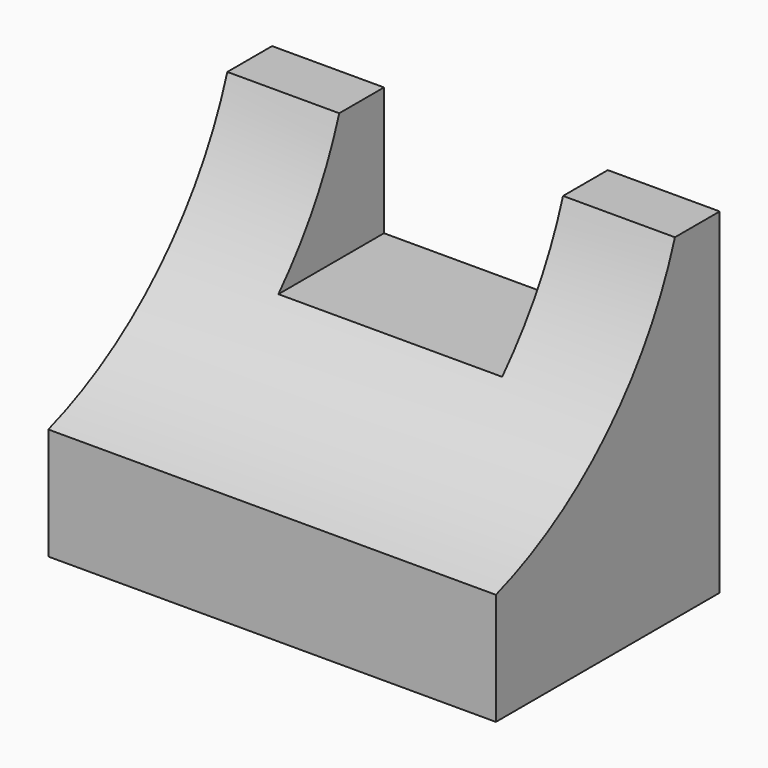
from build123d import *

# Parameters (mm, degrees)
F0_W     = 50.8
F0_H     = 38.1
F1_DEPTH = 31.75
F3_DEPTH = 50.8
F4_W     = 25.4
F4_H     = 14.567647
F5_DEPTH = 25.4


with BuildPart() as f1:
    # F0 (on Front) → F1 (new body)
    with BuildSketch(Plane.XZ):
        with Locations((25.4, 19.05)):
            Rectangle(F0_W, F0_H)
    extrude(amount=F1_DEPTH)

    # F2 (on face) → F3 (cut)
    with BuildSketch(Plane.YZ.offset(50.8)):
        with BuildLine():
            Line((-31.75, 38.1), (-31.75, 12.7))
            ThreePointArc((-31.75, 12.7), (-16.061294, 22.411294), (-6.35, 38.1))
            Line((-6.35, 38.1), (-31.75, 38.1))
        make_face()
    extrude(amount=-F3_DEPTH, mode=Mode.SUBTRACT)

    # F4 (on face) → F5 (cut)
    with BuildSketch(Plane(origin=(0, 0, 0), x_dir=(-1, 0, 0), z_dir=(0, 1, 0))):
        with Locations((-25.4, 30.816177)):
            Rectangle(F4_W, F4_H)
    extrude(amount=-F5_DEPTH, mode=Mode.SUBTRACT)


solid = f1.part
